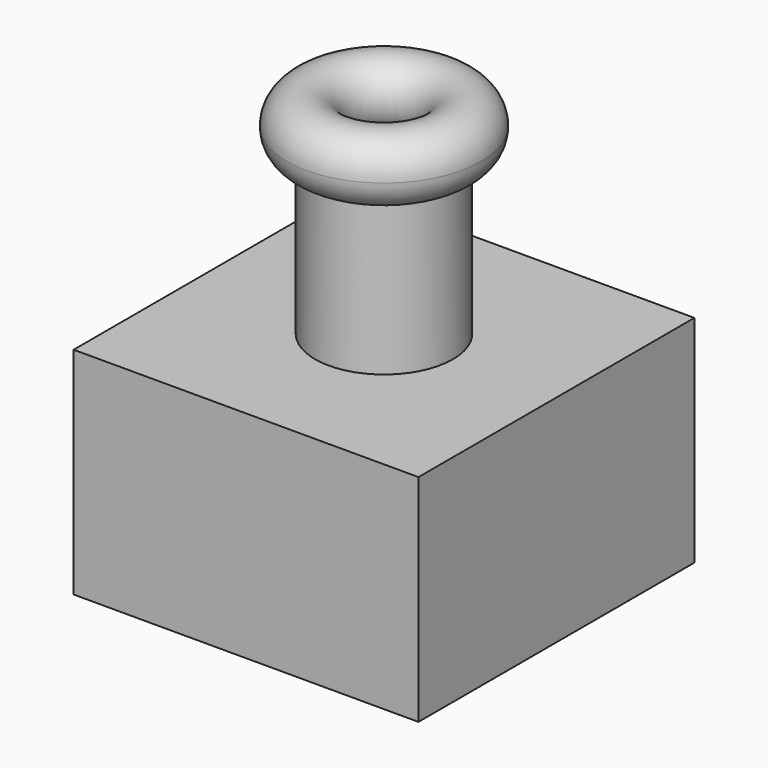
from build123d import *

# Parameters (mm, degrees)
BOX001_W          = 10
BOX001_H          = 10
BOX001_DEPTH      = 8
BOX_W             = 16
BOX_H             = 16
BOX_DEPTH         = 10
TORUS_R           = 1.5
CYLINDER_R        = 2.5
CYLINDER_DEPTH    = 9
CYLINDER001_R     = 3.2
CYLINDER001_DEPTH = 9


with BuildPart() as cube001:
    # Box001 → Box001 (new body)
    with BuildSketch(Plane(origin=(-5, -5, 0), x_dir=(1, 0, 0), z_dir=(0, 0, 1))):
        with Locations((5, 5)):
            Rectangle(BOX001_W, BOX001_H)
    extrude(amount=BOX001_DEPTH)


with BuildPart() as cube:
    # Box → Box (new body)
    with BuildSketch(Plane(origin=(-8, -8, 0), x_dir=(1, 0, 0), z_dir=(0, 0, 1))):
        with Locations((8, 8)):
            Rectangle(BOX_W, BOX_H)
    extrude(amount=BOX_DEPTH)


with BuildPart() as torus:
    # Torus → Torus (revolve)
    with BuildSketch(Plane(origin=(0, 0, 18.5), x_dir=(1, 0, 0), z_dir=(0, -1, 0))):
        with Locations((3, 0)):
            Circle(TORUS_R)
    revolve(axis=Axis((0, 0, 18.5), (0, 0, 1)))


with BuildPart() as cylinder:
    # Cylinder → Cylinder (new body)
    with BuildSketch(Plane.XY.offset(10)):
        Circle(CYLINDER_R)
    extrude(amount=CYLINDER_DEPTH)


with BuildPart() as cut001:
    # Cylinder001 → Cylinder001 (new body)
    with BuildSketch(Plane.XY.offset(10)):
        Circle(CYLINDER001_R)
    extrude(amount=CYLINDER001_DEPTH)

    # Cut: cut Cylinder
    add(cylinder.part, mode=Mode.SUBTRACT)

    # Fusion: union Cube, Torus
    add(cube.part)
    add(torus.part)

    # Cut001: cut Cube001
    add(cube001.part, mode=Mode.SUBTRACT)


solid = cut001.part
